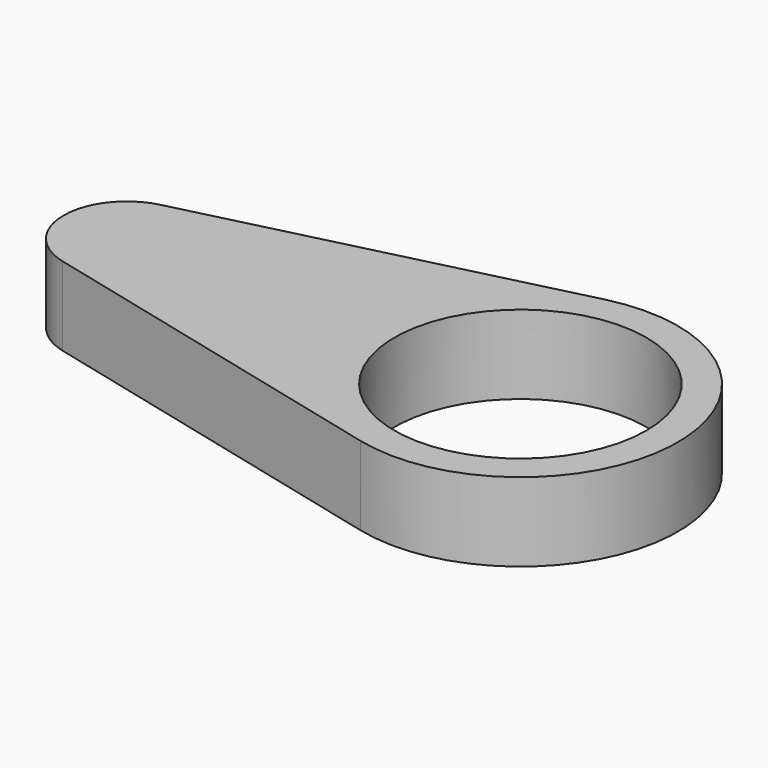
from build123d import *

# Parameters (mm, degrees)
SKETCH_R  = 8
PAD_DEPTH = 5


with BuildPart() as part:
    # Sketch → Pad (new body)
    with BuildSketch(Plane.XY):
        with BuildLine():
            ThreePointArc((-2.4, -9.707729), (10, 0), (-2.4, 9.707729))
            Line((-25.96, 3.883092), (-2.4, 9.707729))
            ThreePointArc((-25.96, 3.883092), (-29, 0), (-25.96, -3.883092))
            Line((-2.4, -9.707729), (-25.96, -3.883092))
        make_face()
        Circle(SKETCH_R, mode=Mode.SUBTRACT)
    extrude(amount=PAD_DEPTH)


solid = part.part
